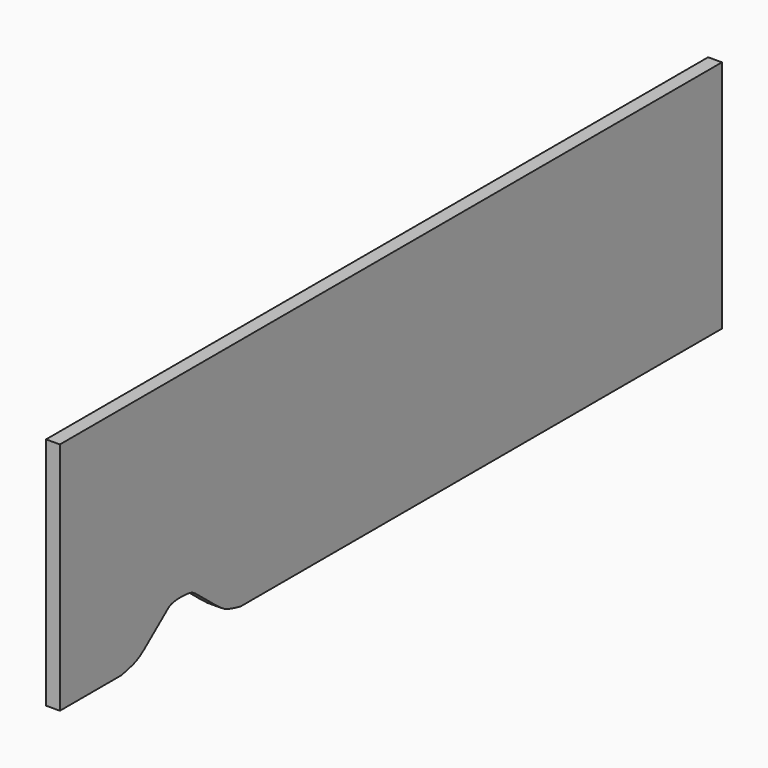
from build123d import *

# Parameters (mm, degrees)
F1_DEPTH = 10


with BuildPart() as f1:
    # F0 (on Right) → F1 (new body)
    with BuildSketch(Plane.YZ):
        with BuildLine():
            Line((0, 170), (0, 0))
            Line((0, 0), (56, 0))
            add(Edge.make_bspline(
                [(56, 0), (60.962454102, 1.0263384017), (70.4686025093, 2.9924069963), (79.778299243, 10.9552179831), (89.8968403711, 18.781796866), (95.8442228266, 23.9873697899), (100.850667741, 27.6911734943), (110, 28.1713373734), (119.149332259, 27.6911734943), (124.1557771734, 23.9873697899), (130.1031596289, 18.781796866), (140.221700757, 10.9552179831), (149.5313974907, 2.9924069963), (159.037545898, 1.0263384017), (164, 0)],
                knots=[0, 0, 0, 0, 0.0998541716, 0.1912820864, 0.2849289442, 0.358062166, 0.421252693, 0.5, 0.578747307, 0.641937834, 0.7150710558, 0.8087179136, 0.9001458284, 1, 1, 1, 1], degree=3))
            Line((164, 0), (600, 0))
            Line((600, 0), (600, 170))
            Line((600, 170), (0, 170))
        make_face()
    extrude(amount=F1_DEPTH)


solid = f1.part
